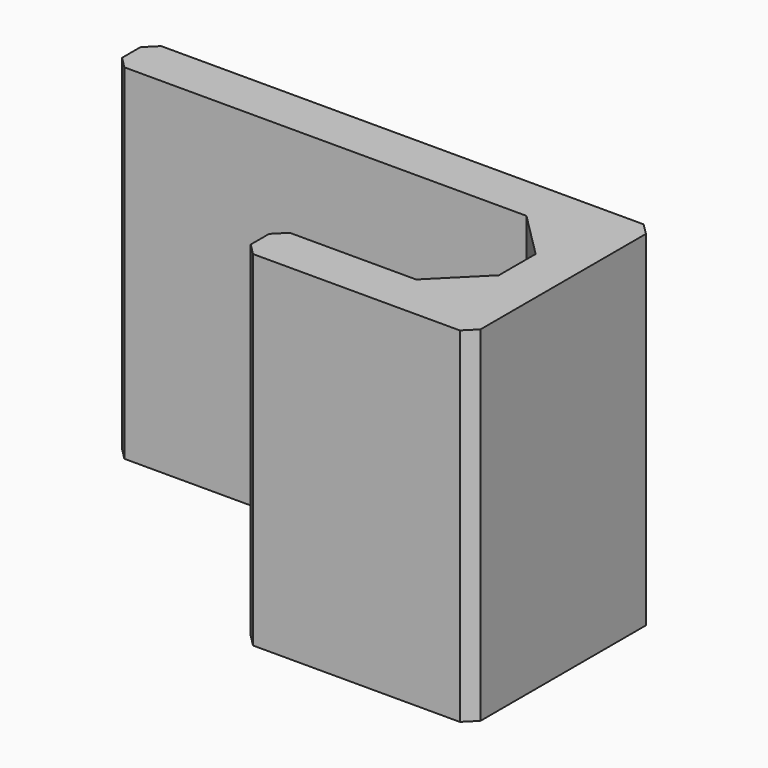
from build123d import *

# Parameters (mm, degrees)
F1_DEPTH = 15
F2_SIZE  = 0.5
F3_SIZE  = 2


with BuildPart() as f1:
    # F0 (on Top) → F1 (new body)
    with BuildSketch(Plane.XY):
        Polygon((0, 2), (0, 0), (20, 0), (20, -6), (12, -6), (12, -8), (20, -8), (22, -8), (22, -6), (22, 0), (22, 2), (20, 2), align=None)
    extrude(amount=F1_DEPTH)

    # F2
    f2_edges = [f1.edges().sort_by_distance(p)[0] for p in [
        (0, 2, 7.5),
        (0, 0, 7.5),
        (12, -8, 7.5),
        (12, -6, 7.5),
        (22, -8, 7.5),
        (22, 2, 7.5),
    ]]
    chamfer(f2_edges, length=F2_SIZE)

    # F3
    f3_edges = [f1.edges().sort_by_distance(p)[0] for p in [
        (20, 0, 7.5),
        (20, -6, 7.5),
    ]]
    chamfer(f3_edges, length=F3_SIZE)


solid = f1.part
